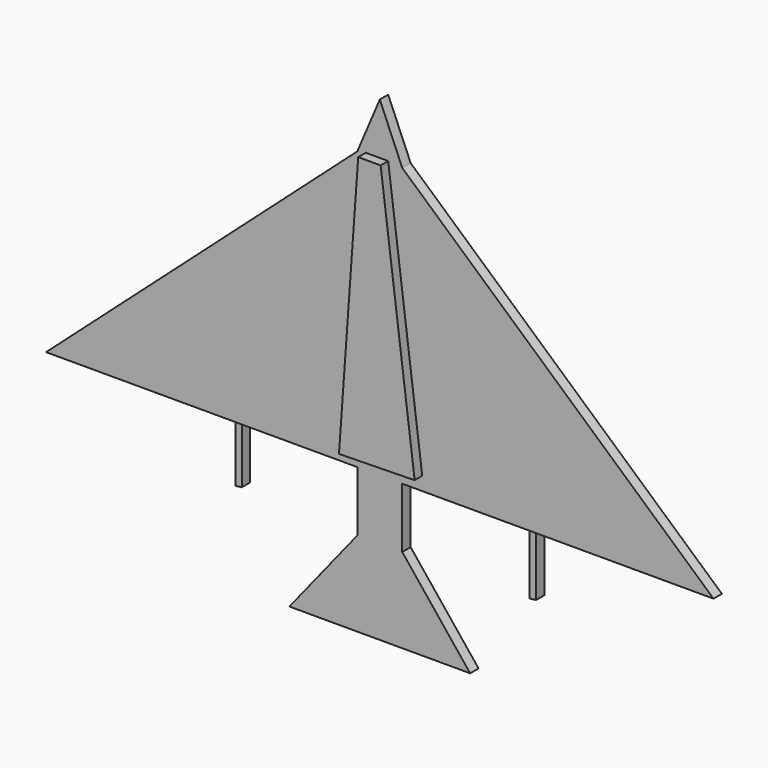
from build123d import *

# Parameters (mm, degrees)
F1_DEPTH = 1.524


with BuildPart() as f1:
    # F0 (on Front) → F1 (new body)
    with BuildSketch(Plane.XZ):
        Polygon((-18.5799710453, 49.0164911455), (-25.087463931, 49.0164911455), (-25.087463931, 8.7130463019), (-25.087463931, 0), (-25.087463931, -12.2856638446), (-18.5799710453, -12.2856638446), (-18.5799710453, 0), (-18.5799710453, 8.7130463019), align=None)
        Polygon((26.5445360609, 8.7130463019), (-18.5799710453, 49.0164911455), (-18.5799710453, 8.7130463019), align=None)
        Polygon((-21.8337174881, 56.6860431224), (-25.087463931, 49.0164911455), (-18.5799710453, 49.0164911455), align=None)
        Polygon((-25.087463931, -12.2856638446), (-25.087463931, 0), (-34.9394671738, -12.2856638446), align=None)
        Polygon((-8.7279678024, -12.2856638446), (-18.5799710453, 0), (-18.5799710453, -12.2856638446), align=None)
        Polygon((-21.8337174881, 56.6860431224), (-25.087463931, 49.0164911455), (-18.5799710453, 49.0164911455), align=None)
        Polygon((-25.087463931, 8.7130463019), (-25.087463931, 49.0164911455), (-70.2119710372, 8.7130463019), align=None)
        Polygon((-18.5799710453, 49.0164911455), (-25.087463931, 49.0164911455), (-25.087463931, 8.7130463019), (-25.087463931, 0), (-25.087463931, -12.2856638446), (-18.5799710453, -12.2856638446), (-18.5799710453, 0), (-18.5799710453, 8.7130463019), align=None)
        Polygon((26.5445360609, 8.7130463019), (-18.5799710453, 49.0164911455), (-18.5799710453, 8.7130463019), align=None)
        Polygon((-25.087463931, 8.7130463019), (-25.087463931, 49.0164911455), (-70.2119710372, 8.7130463019), align=None)
    extrude(amount=F1_DEPTH)


with BuildPart() as f1b:
    # F0 (on Front) → F1, piece 2 (new body)
    with BuildSketch(Plane.XZ):
        Polygon((-62.475029736, -7.6625326949), (-65.2621462941, -46.4499257505), (-54.2898836013, -46.2373864274), (-59.2236593366, -7.6642385684), align=None)
    extrude(amount=F1_DEPTH)


with BuildPart() as f1c:
    # F0 (on Front) → F1, piece 3 (new body)
    with BuildSketch(Plane.XZ):
        Polygon((26.0119605809, -11.029027164), (26.0119605809, -30.079027164), (26.9409567118, -29.9602020532), (26.9409567118, -10.9102020532), align=None)
    extrude(amount=F1_DEPTH)


with BuildPart() as f2_1:
    # F2: copy of F1b
    add(f1b.part.moved(Location((38.862, -1.778, 56.896))))


with BuildPart() as f3_1:
    # F3: copy of F1c
    add(f1c.part.moved(Location((-26.924, 1.016, 29.464))))


with BuildPart() as f4_1:
    # F4: copy of F3_1
    add(f3_1.part.moved(Location((-42.672, 0, 0.508))))


with BuildPart() as f7_1:
    # F7: copy of F2_1
    add(f2_1.part.moved(Location((-0.254, 0.4064, 0))))


solid = Compound([f1.part, f3_1.part, f4_1.part, f7_1.part])
